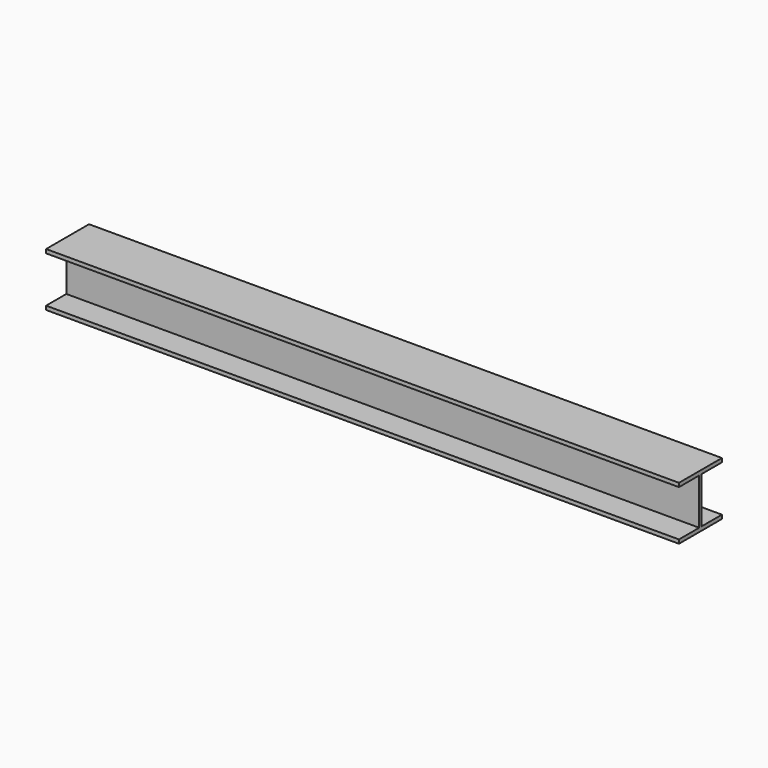
from build123d import *

# Parameters (mm, degrees)
F1_DEPTH = 825


with BuildPart() as f1:
    # F0 (on Right) → F1 (new body, symmetric)
    with BuildSketch(Plane.YZ):
        Polygon((70, 60), (70, 70), (-70, 70), (-70, 60), (-4, 60), (-4, -60), (-70, -60), (-70, -70), (70, -70), (70, -60), (4, -60), (4, 60), align=None)
    extrude(amount=F1_DEPTH, both=True)


solid = f1.part
